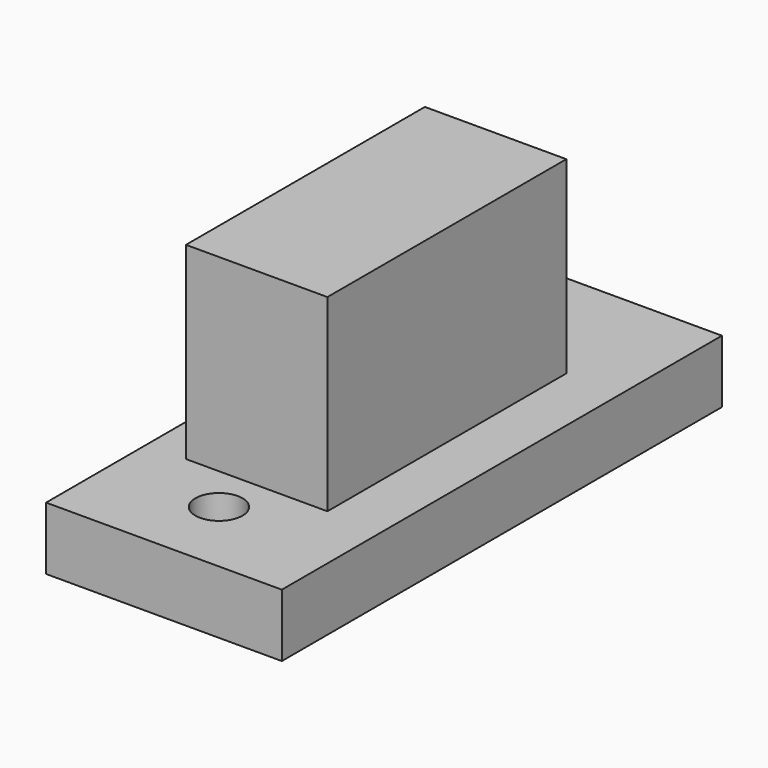
from build123d import *

# Parameters (mm, degrees)
SKETCH_W      = 15
SKETCH_H      = 35
PAD_DEPTH     = 4
SKETCH001_R   = 1.5
SKETCH001_W   = 7
SKETCH001_H   = 17
POCKET_DEPTH  = 4
SKETCH002_W   = 9
SKETCH002_H   = 19
SKETCH002_W_2 = 7
SKETCH002_H_2 = 17
PAD001_DEPTH  = 10
SKETCH003_W   = 9
SKETCH003_H   = 19
PAD002_DEPTH  = 2


with BuildPart() as part:
    # Sketch → Pad (new body)
    with BuildSketch(Plane.XY):
        with Locations((7.5, 17.5)):
            Rectangle(SKETCH_W, SKETCH_H)
    extrude(amount=PAD_DEPTH)

    # Sketch001 → Pocket (cut)
    with BuildSketch(Plane.XY.offset(4)):
        with Locations((7, 30)):
            Circle(SKETCH001_R)
        with Locations((7, 5)):
            Circle(SKETCH001_R)
        with Locations((7, 17.5)):
            Rectangle(SKETCH001_W, SKETCH001_H)
    extrude(amount=-POCKET_DEPTH, mode=Mode.SUBTRACT)

    # Sketch002 → Pad001 (new body)
    with BuildSketch(Plane.XY.offset(4)):
        with Locations((7, 17.5)):
            Rectangle(SKETCH002_W, SKETCH002_H)
        with Locations((7, 17.5)):
            Rectangle(SKETCH002_W_2, SKETCH002_H_2, mode=Mode.SUBTRACT)
    extrude(amount=PAD001_DEPTH)

    # Sketch003 → Pad002 (new body)
    with BuildSketch(Plane.XY.offset(14)):
        with Locations((7, 17.5)):
            Rectangle(SKETCH003_W, SKETCH003_H)
    extrude(amount=PAD002_DEPTH)


solid = part.part
